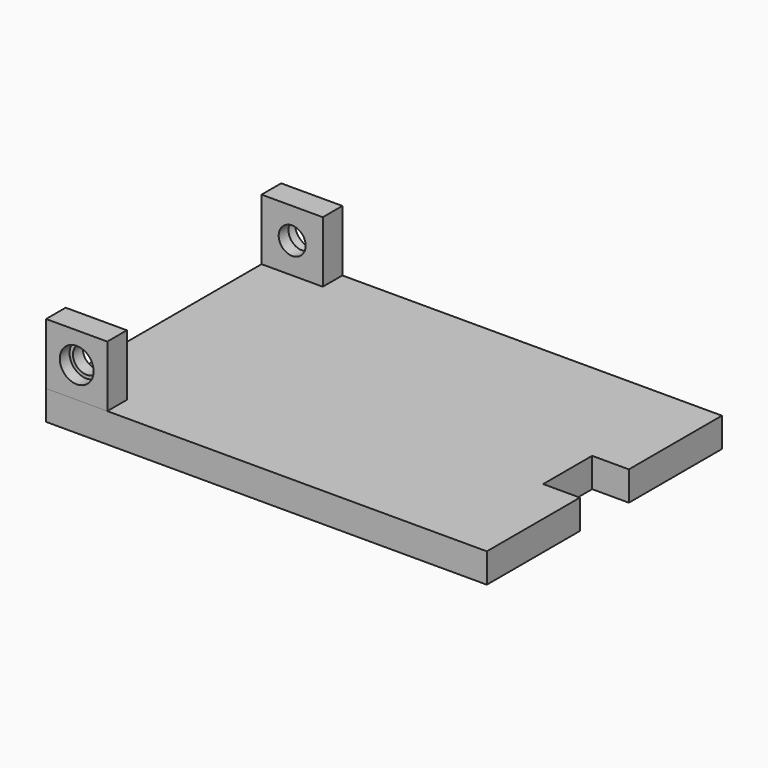
from build123d import *

# Parameters (mm, degrees)
F0_W      = 180
F0_H      = 120
F1_DEPTH  = 12
F2_W      = 25
F2_H      = 10
F3_DEPTH  = 25
F4_R      = 6.910817
F5_DEPTH  = 5
F6_R      = 5.5
F7_DEPTH  = 200
F9_W      = 15
F9_H      = 25
F10_DEPTH = 25


with BuildPart() as f1:
    # F0 (on Top) → F1 (new body)
    with BuildSketch(Plane.XY):
        Rectangle(F0_W, F0_H)
    extrude(amount=F1_DEPTH)

    # F9 (on face) → F10 (cut)
    with BuildSketch(Plane.XY.offset(12)):
        with Locations((82.5, 0)):
            Rectangle(F9_W, F9_H)
    extrude(amount=-F10_DEPTH, mode=Mode.SUBTRACT)


with BuildPart() as f3:
    # F2 (on face) → F3 (new body)
    with BuildSketch(Plane.XY.offset(12)):
        with Locations((-77.5, -55)):
            Rectangle(F2_W, F2_H)
    extrude(amount=F3_DEPTH)

    # F4 (on face) → F5 (cut)
    with BuildSketch(Plane.XZ.offset(60)):
        with Locations((-77.5, 24.5)):
            Circle(F4_R)
    extrude(amount=-F5_DEPTH, mode=Mode.SUBTRACT)

    # F6 (on face) → F7 (cut)
    with BuildSketch(Plane.XZ.offset(55)):
        with Locations((-77.5, 24.5)):
            Circle(F6_R)
    extrude(amount=-F7_DEPTH, mode=Mode.SUBTRACT)


with BuildPart() as f8_1:
    # F8: instance of F3
    add(f3.part.mirror(Plane.XZ))


solid = Compound([f1.part, f3.part, f8_1.part])
